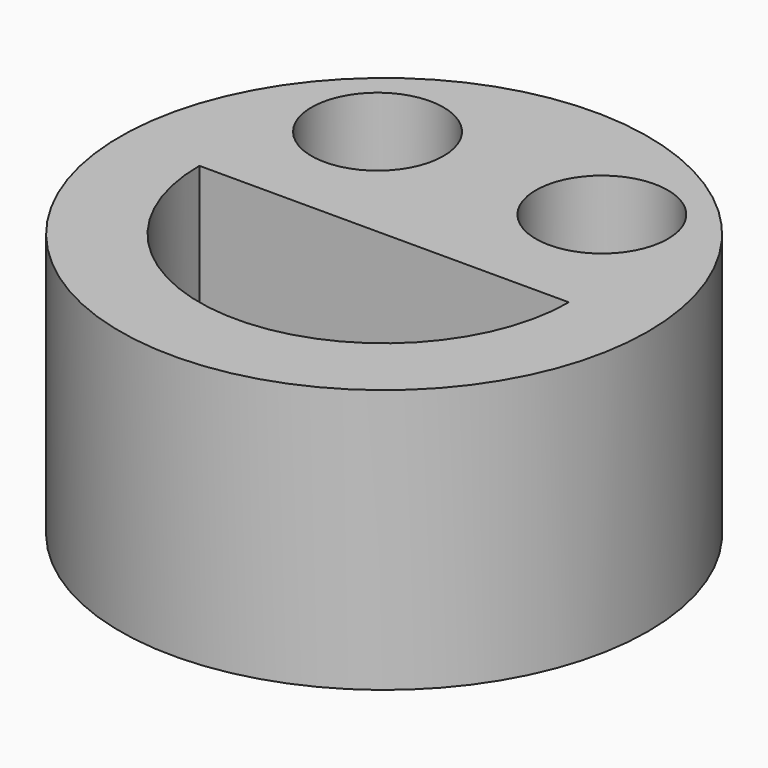
from build123d import *

# Parameters (mm, degrees)
F0_R     = 25.4
F0_R_2   = 6.35
F1_DEPTH = 25.4


with BuildPart() as f1:
    # F0 (on Top) → F1 (new body)
    with BuildSketch(Plane.XY):
        Circle(F0_R)
        with BuildLine():
            Line((-17.78, 0), (17.78, 0))
            ThreePointArc((17.78, 0), (0, -17.78), (-17.78, 0))
        make_face(mode=Mode.SUBTRACT)
        with Locations((-10.795, 12.7)):
            Circle(F0_R_2, mode=Mode.SUBTRACT)
        with Locations((10.795, 12.7)):
            Circle(F0_R_2, mode=Mode.SUBTRACT)
    extrude(amount=F1_DEPTH)


solid = f1.part
